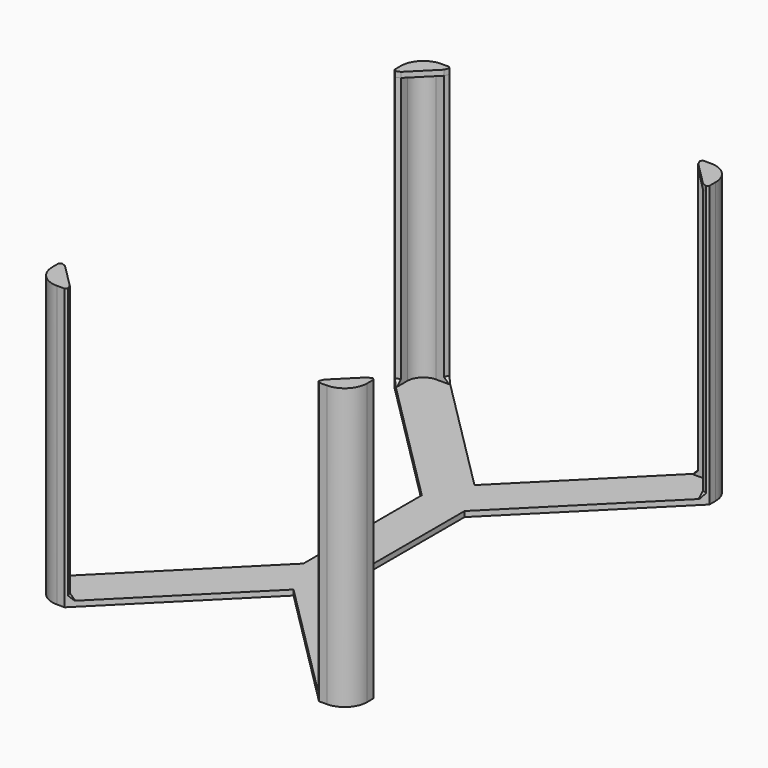
from build123d import *

# Parameters (mm, degrees)
F2_DEPTH = 1
F3_DEPTH = 50.5
F4_SIZE  = 1.2
F5_SIZE  = 0.9
F7_DEPTH = 1


with BuildPart() as f2:
    # F1 (on Top) → F2 (new body)
    with BuildSketch(Plane.XY):
        with BuildLine():
            Line((0, 0), (-4, 0))
            Line((-4, 0), (-4, -13.8431457505))
            Line((-4, -13.8431457505), (-28.25, -38.0931457505))
            Line((-28.25, -38.0931457505), (-28.25, -40.75))
            ThreePointArc((-28.25, -40.75), (-27.3713203436, -42.8713203436), (-25.25, -43.75))
            Line((-25.25, -43.75), (-22.5931457505, -43.75))
            Line((-22.5931457505, -43.75), (0, -21.1568542495))
            Line((0, -21.1568542495), (0, 0))
        make_face()
        with BuildLine():
            Line((-28.25, -40.75), (-28.25, -38.0931457505))
            Line((-28.25, -38.0931457505), (-29.45, -39.2931457505))
            Line((-29.45, -39.2931457505), (-29.45, -40.75))
            ThreePointArc((-29.45, -40.75), (-28.219848481, -43.719848481), (-25.25, -44.95))
            Line((-25.25, -44.95), (-23.7931457505, -44.95))
            Line((-23.7931457505, -44.95), (-22.5931457505, -43.75))
            Line((-22.5931457505, -43.75), (-25.25, -43.75))
            ThreePointArc((-25.25, -43.75), (-27.3713203436, -42.8713203436), (-28.25, -40.75))
        make_face()
    extrude(amount=-F2_DEPTH)

    # F1 (on Top) → F3 (join)
    with BuildSketch(Plane.XY):
        with BuildLine():
            Line((-28.25, -40.75), (-28.25, -38.0931457505))
            Line((-28.25, -38.0931457505), (-29.45, -39.2931457505))
            Line((-29.45, -39.2931457505), (-29.45, -40.75))
            ThreePointArc((-29.45, -40.75), (-28.219848481, -43.719848481), (-25.25, -44.95))
            Line((-25.25, -44.95), (-23.7931457505, -44.95))
            Line((-23.7931457505, -44.95), (-22.5931457505, -43.75))
            Line((-22.5931457505, -43.75), (-25.25, -43.75))
            ThreePointArc((-25.25, -43.75), (-27.3713203436, -42.8713203436), (-28.25, -40.75))
        make_face()
    extrude(amount=F3_DEPTH)

    # F4
    f4_edges = [f2.edges().sort_by_distance(p)[0] for p in [
        (-28.25, -38.093146, 25.25),
        (-22.593146, -43.75, 25.25),
    ]]
    chamfer(f4_edges, length=F4_SIZE)

    # F5
    f5_edges = [f2.edges().sort_by_distance(p)[0] for p in [
        (-23.61741, -44.174264, 0),
        (-28.674264, -39.11741, 0),
    ]]
    chamfer(f5_edges, length=F5_SIZE)

    # F6 (on face) → F7 (join)
    with BuildSketch(Plane.XY.offset(50.5)):
        with BuildLine():
            Line((-25.25, -43.75), (-23.7931457505, -43.75))
            Line((-23.7931457505, -43.75), (-28.25, -39.2931457505))
            Line((-28.25, -39.2931457505), (-28.25, -40.75))
            ThreePointArc((-28.25, -40.75), (-27.3713203436, -42.8713203436), (-25.25, -43.75))
        make_face()
        with BuildLine():
            Line((-23.4416738879, -44.5985281374), (-23.7931457505, -43.75))
            Line((-23.7931457505, -43.75), (-25.25, -43.75))
            ThreePointArc((-25.25, -43.75), (-27.3713203436, -42.8713203436), (-28.25, -40.75))
            Line((-28.25, -40.75), (-28.25, -39.2931457505))
            Line((-28.25, -39.2931457505), (-29.0985281374, -38.9416738879))
            Line((-29.0985281374, -38.9416738879), (-29.45, -39.2931457505))
            Line((-29.45, -39.2931457505), (-29.45, -40.75))
            ThreePointArc((-29.45, -40.75), (-28.219848481, -43.719848481), (-25.25, -44.95))
            Line((-25.25, -44.95), (-23.7931457505, -44.95))
            Line((-23.7931457505, -44.95), (-23.4416738879, -44.5985281374))
        make_face()
    extrude(amount=F7_DEPTH)

    # F8: F2 across face


with BuildPart() as f2_1:
    add(f2.part)
    add(f2.part.mirror(Plane(origin=(0, -10.5784271247, -0.5), x_dir=(0, 1, 0), z_dir=(1, 0, 0))))

    # F9: F2 across face


with BuildPart() as f2_2:
    add(f2_1.part)
    add(f2_1.part.mirror(Plane(origin=(0, 0, -0.5), x_dir=(-1, 0, 0), z_dir=(0, 1, 0))))


solid = f2_2.part
